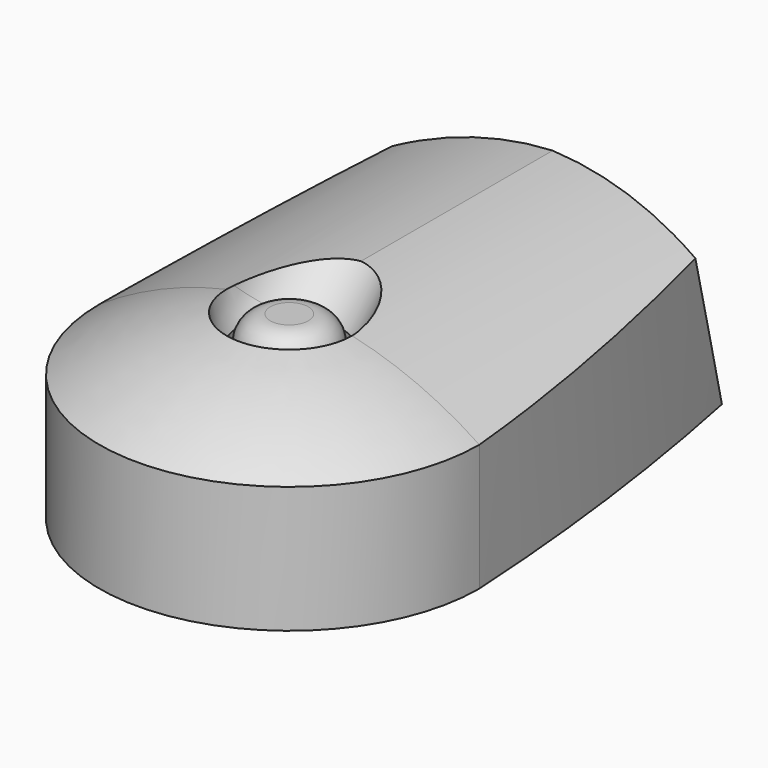
from build123d import *

# Parameters (mm, degrees)
F1_ANGLE_BACK  = 90
F1_ANGLE       = 180
F2_DEPTH       = 38.1
F4_DEPTH       = 19.051
F6_ANGLE_BACK  = 90
F6_ANGLE       = 180
F10_R          = 5.08
F10_R_2        = 4.445
F11_DEPTH      = 6.35
F12_DEPTH      = 2.794
F12_DEPTH_BACK = 6.35
F13_R          = 2.54


with BuildPart() as f1:
    # F0 (on Right) → F1 (revolve)
    with BuildSketch(Plane.YZ, mode=Mode.PRIVATE) as f1_sk:
        with BuildLine():
            Line((-19.05, 0), (0, 0))
            Line((0, 0), (0, 12.7))
            Line((0, 12.7), (0, 19.05))
            ThreePointArc((0, 19.05), (-9.950869572, 17.152608716), (-19.05, 12.7))
            Line((-19.05, 12.7), (-19.05, 0))
        make_face()
    revolve(f1_sk.sketch.rotate(Axis((0, 0, 6.35), (0, 0, -1)), -F1_ANGLE_BACK), axis=Axis((0, 0, 6.35), (0, 0, -1)), revolution_arc=F1_ANGLE)

    # F2 (add): a face of the model
    f2_faces = [f1.faces().sort_by_distance(p)[0] for p in [
        (0, 0, 8.5143309126),
    ]]
    extrude(f2_faces, amount=F2_DEPTH)

    # F3 (on face) → F4 (cut, through all)
    with BuildSketch(Plane(origin=(0, 0, 0), x_dir=(1, 0, 0), z_dir=(0, 0, -1))):
        with BuildLine():
            ThreePointArc((19.05, 0), (17.2317314868, -19.1462308649), (13.97, -38.1))
            Line((13.97, -38.1), (19.05, -38.1))
            Line((19.05, -38.1), (19.05, 0))
        make_face()
        with BuildLine():
            Line((-19.05, -38.1), (-13.97, -38.1))
            ThreePointArc((-13.97, -38.1), (-17.2317314868, -19.1462308649), (-19.05, 0))
            Line((-19.05, 0), (-19.05, -38.1))
        make_face()
    extrude(amount=-F4_DEPTH, mode=Mode.SUBTRACT)

    # F5 (on Right) → F6 (revolve, cut)
    with BuildSketch(Plane.YZ, mode=Mode.PRIVATE) as f6_sk:
        Polygon((32.9955678842, 19.05), (38.1, 0), (45.72, 0), (45.72, 19.05), (38.1, 19.05), align=None)
    revolve(f6_sk.sketch.rotate(Axis((0, -19.05, 6.35), (0, 0, -1)), -F6_ANGLE_BACK), axis=Axis((0, -19.05, 6.35), (0, 0, -1)), revolution_arc=F6_ANGLE, mode=Mode.SUBTRACT)

    # F7 (on Right) → F8 (revolve, cut)
    with BuildSketch(Plane.YZ):
        with BuildLine():
            ThreePointArc((-4.4901280605, 14.5598719395), (0, 12.7), (4.4901280605, 14.5598719395))
            Line((4.4901280605, 14.5598719395), (19.18810552, 29.2578493989))
            Line((19.18810552, 29.2578493989), (14.6979774594, 33.7479774594))
            Line((14.6979774594, 33.7479774594), (-4.4901280605, 14.5598719395))
        make_face()
    revolve(axis=Axis((0, 17.5408982918, 36.5908982918), (0, 0.7071067812, 0.7071067812)), mode=Mode.SUBTRACT)

    # F10 (on offset) → F11 (cut)
    with BuildSketch(Plane.XY.offset(15.2654)):
        Circle(F10_R)
        Circle(F10_R_2, mode=Mode.SUBTRACT)
        Circle(F10_R_2)
    extrude(amount=-F11_DEPTH, mode=Mode.SUBTRACT)

    # F10 (on offset) → F12 (join, two sides)
    with BuildSketch(Plane.XY.offset(15.2654)) as f12_sk:
        Circle(F10_R_2)
    extrude(amount=F12_DEPTH)
    extrude(f12_sk.sketch, amount=-F12_DEPTH_BACK)

    # F13
    f13_edges = [f1.edges().sort_by_distance(p)[0] for p in [
        (-4.445, 0, 18.0594),
    ]]
    fillet(f13_edges, radius=F13_R)


solid = f1.part
